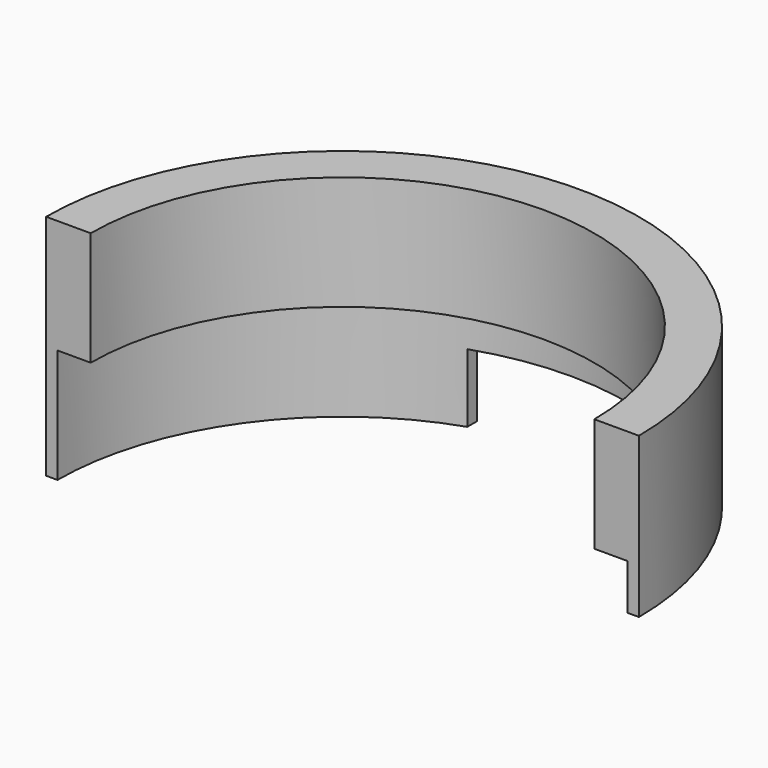
from build123d import *

# Parameters (mm, degrees)
BOX004_W           = 19
BOX004_H           = 20
BOX004_DEPTH       = 4
CYLINDER002_R      = 12.5
CYLINDER002_DEPTH  = 5
CYLINDER001_R      = 13
CYLINDER001_DEPTH  = 10
POCKET004012_DEPTH = 10


with BuildPart() as box004:
    # Box004 → Box004 (new body)
    with BuildSketch(Plane(origin=(-11, -12, -17), x_dir=(1, 0, 0), z_dir=(0, 0, 1))):
        with Locations((9.5, 10)):
            Rectangle(BOX004_W, BOX004_H)
    extrude(amount=BOX004_DEPTH)


with BuildPart() as cylinder002:
    # Cylinder002 → Cylinder002 (new body)
    with BuildSketch(Plane(origin=(-7, -7, -16), x_dir=(1, 0, 0), z_dir=(0, 0, 1))):
        Circle(CYLINDER002_R)
    extrude(amount=CYLINDER002_DEPTH)


with BuildPart() as cut002:
    # Cylinder001 → Cylinder001 (new body)
    with BuildSketch(Plane(origin=(-7, -7, -16), x_dir=(1, 0, 0), z_dir=(0, 0, 1))):
        Circle(CYLINDER001_R)
    extrude(amount=CYLINDER001_DEPTH)

    # Sketch020 → Pocket004012 (cut)
    with BuildSketch(Plane(origin=(-7, -7, -6), x_dir=(1, 0, 0), z_dir=(0, 0, 1))):
        with BuildLine():
            ThreePointArc((11.043126, 0), (0, 11.043126), (-11.043126, 0))
            Line((-11.043126, 0), (-15.353921, 0))
            Line((-15.353921, 0), (-15.353921, -14.225527))
            Line((-15.353921, -14.225527), (14.925669, -14.225527))
            Line((14.925669, -14.225527), (14.925669, 0))
            Line((14.925669, 0), (11.043126, 0))
        make_face()
    extrude(amount=-POCKET004012_DEPTH, mode=Mode.SUBTRACT)

    # Cut001: cut Cylinder002
    add(cylinder002.part, mode=Mode.SUBTRACT)

    # Cut002: cut Box004
    add(box004.part, mode=Mode.SUBTRACT)


solid = cut002.part
